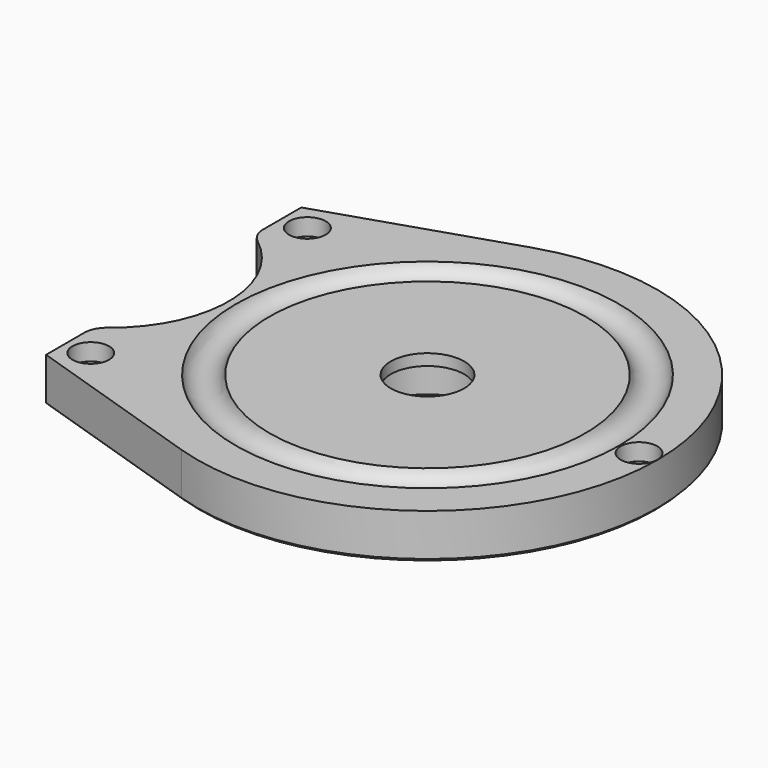
from build123d import *

# Parameters (mm, degrees)
F0_R            = 40.8
F1_DEPTH        = 8
F4_R            = 3.15
F6_W            = 4.8
F6_H            = 38.4
F7_DEPTH        = 8.001
F9_DEPTH        = 8
F10_R           = 21
F11_DEPTH       = 8.001
F12_R           = 4
F14_D           = 3.3
F14_CBORE_D     = 6.5
F14_CBORE_DEPTH = 3
F15_SIZE        = 0.5


with BuildPart() as f1:
    # F0 (on Top) → F1 (new body)
    with BuildSketch(Plane.XY):
        Circle(F0_R)
    extrude(amount=F1_DEPTH)

    # F2 (on Right) → F3 (revolve, cut)
    with BuildSketch(Plane.YZ):
        Polygon((0, 8), (0, 0), (8.6, 0), (8.6, 6), (6.5, 6), (6.5, 8), align=None)
    revolve(axis=Axis((0, 0, 10.7360328796), (0, 0, 1)), mode=Mode.SUBTRACT)

    # F4 (on Right) → F5 (revolve, cut)
    with BuildSketch(Plane.YZ):
        with Locations((31, 9)):
            Circle(F4_R)
    revolve(axis=Axis((0, 0, 6.3867427816), (0, 0, 1)), mode=Mode.SUBTRACT)

    # F6 (on Top) → F7 (cut, through all)
    with BuildSketch(Plane.XY):
        with Locations((-38.4, 0)):
            Rectangle(F6_W, F6_H)
    extrude(amount=F7_DEPTH, mode=Mode.SUBTRACT)

    # F8 (on Top) → F9 (join, through all)
    with BuildSketch(Plane.XY):
        with BuildLine():
            Line((-45, 28.2782724184), (-45, -28.2782724184))
            Line((-45, -28.2782724184), (-12.6078933705, -38.8031058648))
            ThreePointArc((-12.6078933705, -38.8031058648), (-26.2059585661, -31.2711965814), (-36, -19.2))
            Line((-36, -19.2), (-36, 19.2))
            ThreePointArc((-36, 19.2), (-26.2059585661, 31.2711965814), (-12.6078933705, 38.8031058648))
            Line((-12.6078933705, 38.8031058648), (-45, 28.2782724184))
        make_face()
    extrude(amount=F9_DEPTH)

    # F10 (on face) → F11 (cut, through all)
    with BuildSketch(Plane.XY.offset(8)):
        with Locations((-56.25, 0)):
            Circle(F10_R)
    extrude(amount=-F11_DEPTH, mode=Mode.SUBTRACT)

    # F12
    f12_edges = [f1.edges().sort_by_distance(p)[0] for p in [
        (-45, -17.732386, 4),
        (-45, 17.732386, 4),
    ]]
    fillet(f12_edges, radius=F12_R)

    # F14 (through all)
    with Locations(Plane.XY.offset(8)):
        with Locations((-40.5, 24), (-40.5, -24), (37.5, 0)):
            CounterBoreHole(F14_D / 2, F14_CBORE_D / 2, F14_CBORE_DEPTH)

    # F15
    f15_edges = [f1.edges().sort_by_distance(p)[0] for p in [
        (-45, 24.044154, 0),
        (-44.588872, 18.043683, 0),
        (-28.803947, 33.540689, 0),
        (-35.25, 0, 0),
        (40.8, 0, 0),
        (-44.588872, -18.043683, 0),
        (-28.803947, -33.540689, 0),
        (-45, -24.044154, 0),
        (-42.15, -24, 0),
        (-42.15, 24, 0),
        (0, -8.6, 0),
        (35.85, 0, 0),
    ]]
    chamfer(f15_edges, length=F15_SIZE)


solid = f1.part
